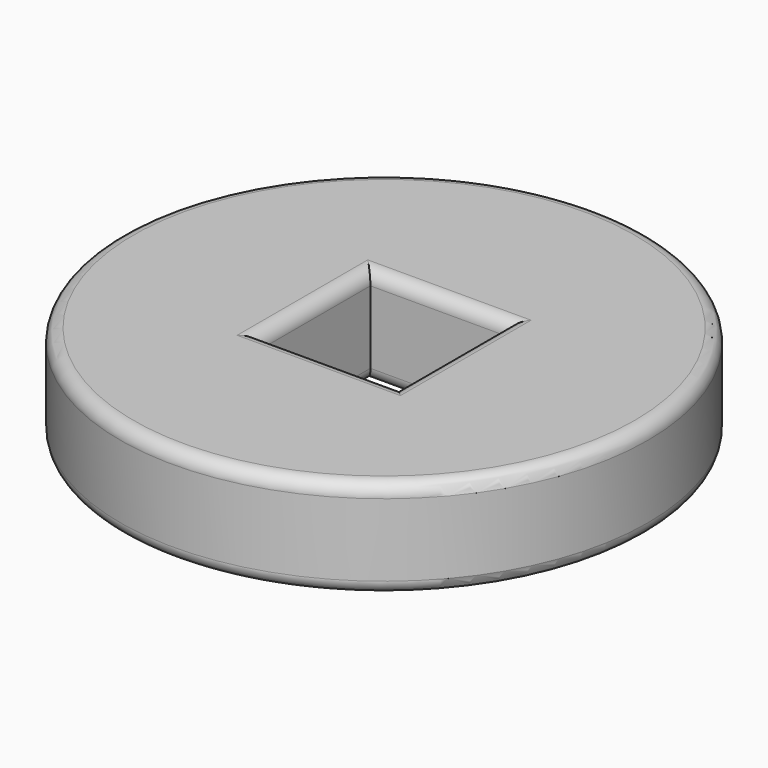
from build123d import *

# Parameters (mm, degrees)
F0_R     = 8
F0_W     = 4.15
F0_H     = 4.15
F1_DEPTH = 3
F2_R     = 0.4


with BuildPart() as f1:
    # F0 (on Top) → F1 (new body)
    with BuildSketch(Plane.XY):
        Circle(F0_R)
        Rectangle(F0_W, F0_H, mode=Mode.SUBTRACT)
    extrude(amount=F1_DEPTH)

    # F2
    f2_edges = [f1.edges().sort_by_distance(p)[0] for p in [
        (-8, 0, 3),
        (2.075, 0, 3),
        (0, -2.075, 3),
        (-2.075, 0, 3),
        (0, 2.075, 3),
        (-8, 0, 0),
        (2.075, 0, 0),
        (0, -2.075, 0),
        (-2.075, 0, 0),
        (0, 2.075, 0),
    ]]
    fillet(f2_edges, radius=F2_R)


solid = f1.part
